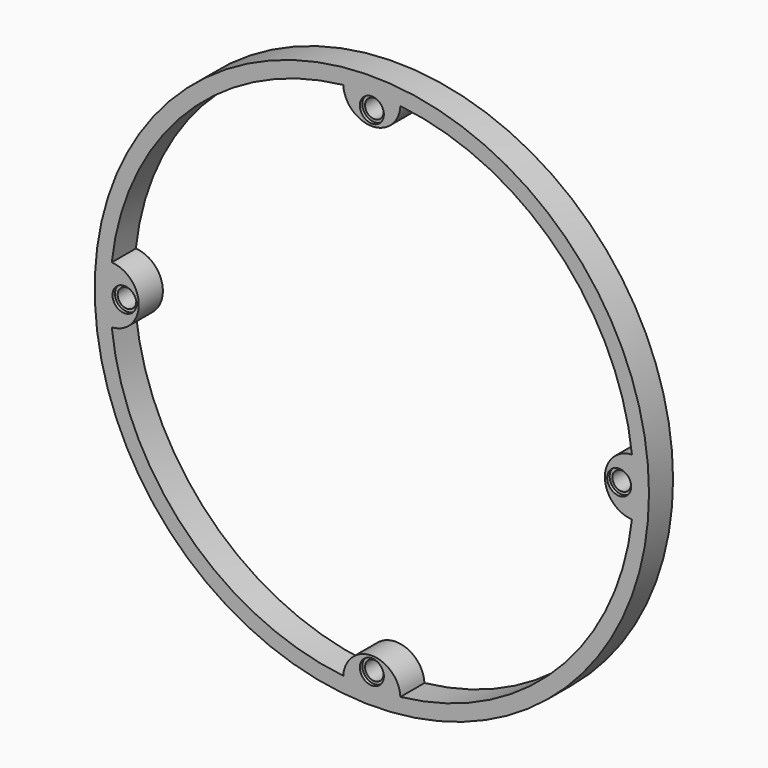
from build123d import *

# Parameters (mm, degrees)
F0_R     = 71.5
F0_R_2   = 2.4
F1_DEPTH = 3.88
F2_R     = 3.1
F3_DEPTH = 0.8
F4_R     = 3.1
F5_DEPTH = 0.8


with BuildPart() as f1:
    # F0 (on Front) → F1 (new body, symmetric)
    with BuildSketch(Plane.XZ):
        Circle(F0_R)
        with Locations((0, -63.81)):
            Circle(F0_R_2, mode=Mode.SUBTRACT)
        with Locations((-63.81, 0)):
            Circle(F0_R_2, mode=Mode.SUBTRACT)
        with BuildLine():
            ThreePointArc((-67.09656, 7.368964), (-47.729708, 47.729708), (-7.368964, 67.09656))
            ThreePointArc((-7.368964, 67.09656), (0, 60.12), (7.368964, 67.09656))
            ThreePointArc((7.368964, 67.09656), (47.729708, 47.729708), (67.09656, 7.368964))
            ThreePointArc((67.09656, 7.368964), (60.12, 0), (67.09656, -7.368964))
            ThreePointArc((67.09656, -7.368964), (47.729708, -47.729708), (7.368964, -67.09656))
            ThreePointArc((7.368964, -67.09656), (0, -60.12), (-7.368964, -67.09656))
            ThreePointArc((-7.368964, -67.09656), (-47.729708, -47.729708), (-67.09656, -7.368964))
            ThreePointArc((-67.09656, -7.368964), (-60.12, 0), (-67.09656, 7.368964))
        make_face(mode=Mode.SUBTRACT)
        with Locations((63.81, 0)):
            Circle(F0_R_2, mode=Mode.SUBTRACT)
        with Locations((0, 63.81)):
            Circle(F0_R_2, mode=Mode.SUBTRACT)
    extrude(amount=F1_DEPTH, both=True)

    # F2 (on face) → F3 (cut)
    with BuildSketch(Plane.XZ.offset(3.88)):
        with Locations((0, 63.81)):
            Circle(F2_R)
        with Locations((63.81, 0)):
            Circle(F2_R)
        with Locations((0, -63.81)):
            Circle(F2_R)
        with Locations((-63.81, 0)):
            Circle(F2_R)
    extrude(amount=-F3_DEPTH, mode=Mode.SUBTRACT)

    # F4 (on face) → F5 (cut)
    with BuildSketch(Plane(origin=(0, 3.88, 0), x_dir=(-1, 0, 0), z_dir=(0, 1, 0))):
        with Locations((0, 63.81)):
            Circle(F4_R)
        with Locations((63.81, 0)):
            Circle(F4_R)
        with Locations((0, -63.81)):
            Circle(F4_R)
        with Locations((-63.81, 0)):
            Circle(F4_R)
    extrude(amount=-F5_DEPTH, mode=Mode.SUBTRACT)


solid = f1.part
